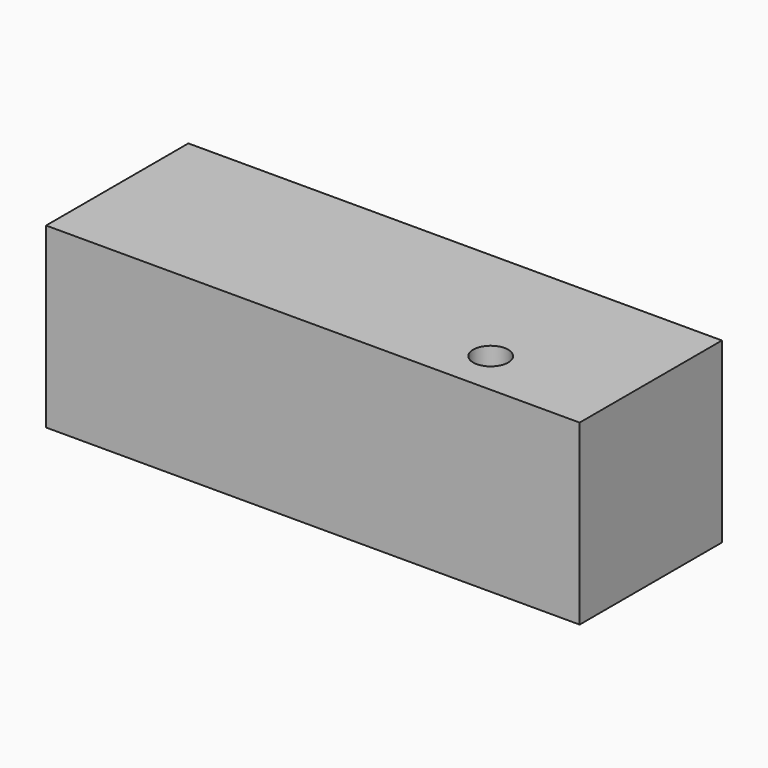
from build123d import *

# Parameters (mm, degrees)
F0_W     = 76.2
F0_H     = 25.4
F1_DEPTH = 25.4
F3_D     = 5


with BuildPart() as f1:
    # F0 (on Front) → F1 (new body)
    with BuildSketch(Plane.XZ):
        Rectangle(F0_W, F0_H)
    extrude(amount=F1_DEPTH)

    # F3 (through all)
    with Locations(Plane.XY.offset(12.7)):
        with Locations((20.32, -19.05)):
            Hole(F3_D / 2)


solid = f1.part
